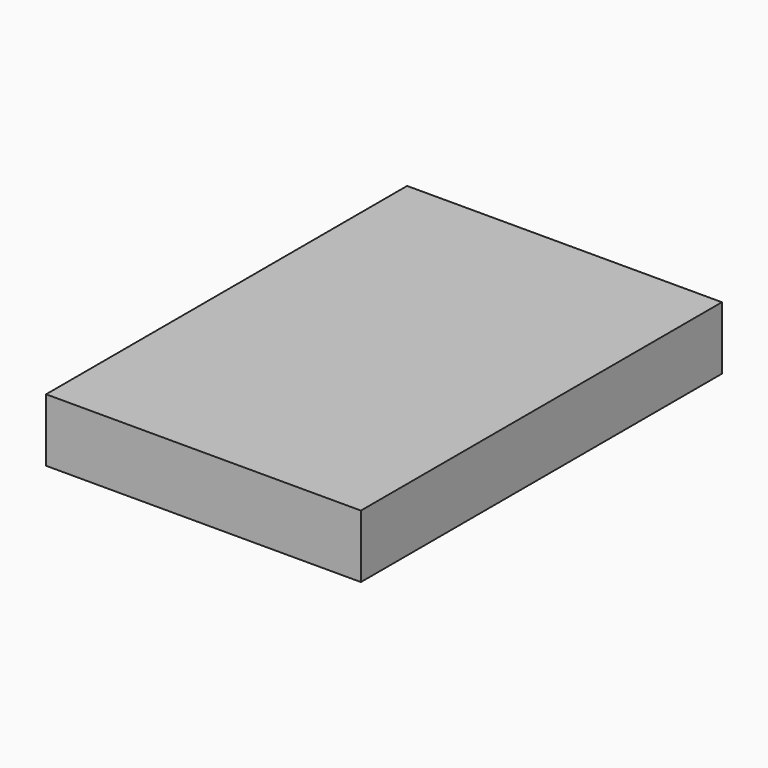
from build123d import *

# Parameters (mm, degrees)
F0_W     = 30
F0_H     = 43
F1_DEPTH = 2
F3_DEPTH = 2
F4_W     = 30
F4_H     = 43
F5_DEPTH = 2


with BuildPart() as f1:
    # F0 (on Top) → F1 (new body)
    with BuildSketch(Plane.XY):
        Rectangle(F0_W, F0_H)
    extrude(amount=F1_DEPTH)

    # F2 (on face) → F3 (join)
    with BuildSketch(Plane.XY.offset(2)):
        Polygon((-13.862556, -20.510625), (-13.862556, 21.5), (-15, 21.5), (-15, -21.5), (15, -21.5), (15, 21.5), (13.922185, 21.5), (13.922185, -20.510625), align=None)
    extrude(amount=F3_DEPTH)

    # F4 (on face) → F5 (join)
    with BuildSketch(Plane.XY.offset(4)):
        Rectangle(F4_W, F4_H)
    extrude(amount=F5_DEPTH)


solid = f1.part
